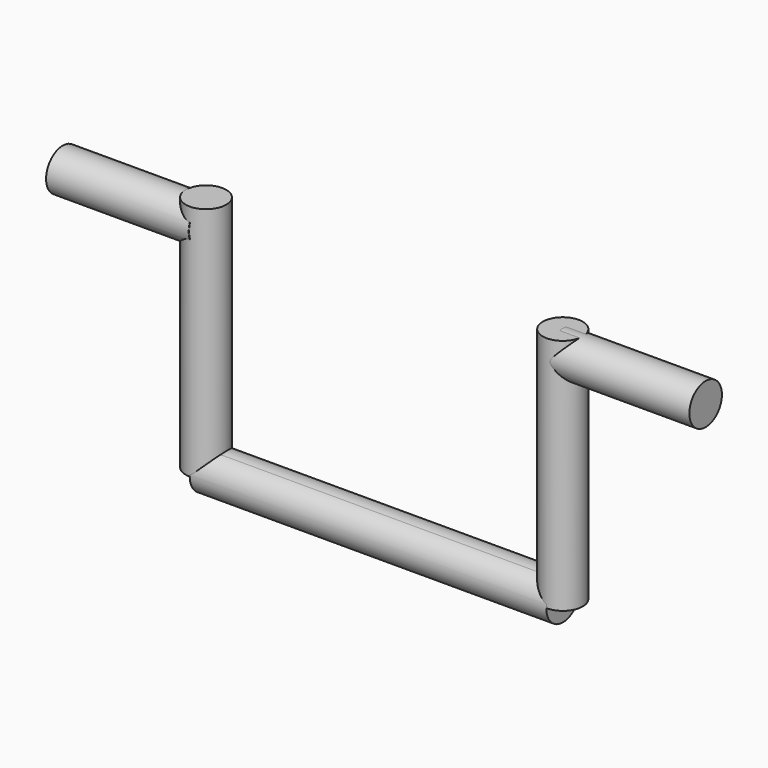
from build123d import *

# Parameters (mm, degrees)
F1_DEPTH = 190.5
F2_R     = 10.818044
F3_DEPTH = 127
F2_R_2   = 10.691628
F4_DEPTH = 127
F5_R     = 11.141962
F5_R_2   = 10.916341
F6_DEPTH = 76.2
F7_R     = 10.875838
F8_DEPTH = 76.2


with BuildPart() as f1:
    # F0 (on Right) → F1 (new body)
    with BuildSketch(Plane.YZ):
        with BuildLine():
            ThreePointArc((-79.597275, 10.571338), (-85.746525, -5.640093), (-68.586435, -8.121035))
            ThreePointArc((-68.586435, -8.121035), (-66.596902, 5.640093), (-79.597275, 10.571338))
        make_face()
    extrude(amount=F1_DEPTH)

    # F2 (on Top) → F3 (join)
    with BuildSketch(Plane.XY):
        with Locations((0, -76.424129)):
            Circle(F2_R)
    extrude(amount=F3_DEPTH)

    # F2 (on Top) → F4 (join)
    with BuildSketch(Plane.XY):
        with Locations((0, -76.424129)):
            Circle(F2_R)
        with Locations((190.621048, -76.424129)):
            Circle(F2_R_2)
    extrude(amount=F4_DEPTH)

    # F5 (on Right) → F6 (join)
    with BuildSketch(Plane.YZ):
        with Locations((-76.848619, 115.551263)):
            Circle(F5_R)
        with Locations((-76.848619, 115.551263)):
            Circle(F5_R_2, mode=Mode.SUBTRACT)
    extrude(amount=-F6_DEPTH)

    # F7 (on face) → F8 (join)
    with BuildSketch(Plane.YZ.offset(190.5)):
        with Locations((-76.119892, 116.334341)):
            Circle(F7_R)
    extrude(amount=F8_DEPTH)


solid = f1.part
